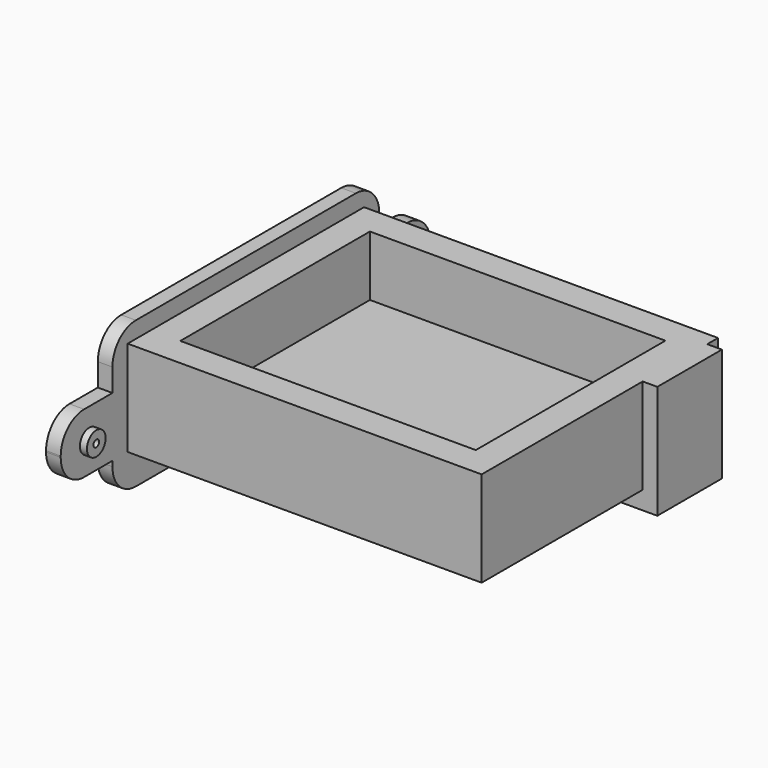
from build123d import *

# Parameters (mm, degrees)
BOX003_W          = 2.5
BOX003_H          = 57
BOX003_DEPTH      = 25
FILLET_R          = 5
BOX002_W          = 50.5
BOX002_H          = 40.5
BOX002_DEPTH      = 10.3
BOX_W             = 60.5
BOX_H             = 50.5
BOX_DEPTH         = 16.3
BOX001_W          = 63
BOX001_H          = 13.8
BOX001_DEPTH      = 19.4
CYLINDER001_R     = 0.6
CYLINDER001_DEPTH = 10
CYLINDER003_R     = 0.6
CYLINDER003_DEPTH = 10
CYLINDER_R        = 2
CYLINDER_DEPTH    = 1.2
CYLINDER002_R     = 2
CYLINDER002_DEPTH = 1.2
BOX004_W          = 2.5
BOX004_H          = 79
BOX004_DEPTH      = 10.2
FILLET001_R       = 5


with BuildPart() as fillet_body:
    # Box003 → Box003 (new body)
    with BuildSketch(Plane(origin=(-2.5, -3.25, -5.9), x_dir=(1, 0, 0), z_dir=(0, 0, 1))):
        with Locations((1.25, 28.5)):
            Rectangle(BOX003_W, BOX003_H)
    extrude(amount=BOX003_DEPTH)

    # Fillet
    fillet_edges = [fillet_body.edges().sort_by_distance(p)[0] for p in [
        (-1.25, -3.25, -5.9),
        (-1.25, -3.25, 19.1),
        (-1.25, 53.75, -5.9),
        (-1.25, 53.75, 19.1),
    ]]
    fillet(fillet_edges, radius=FILLET_R)


with BuildPart() as cube002:
    # Box002 → Box002 (new body)
    with BuildSketch(Plane(origin=(5, 5, 6), x_dir=(1, 0, 0), z_dir=(0, 0, 1))):
        with Locations((25.25, 20.25)):
            Rectangle(BOX002_W, BOX002_H)
    extrude(amount=BOX002_DEPTH)


with BuildPart() as cube:
    # Box → Box (new body)
    with BuildSketch(Plane.XY):
        with Locations((30.25, 25.25)):
            Rectangle(BOX_W, BOX_H)
    extrude(amount=BOX_DEPTH)


with BuildPart() as cut:
    # Box001 → Box001 (new body)
    with BuildSketch(Plane(origin=(0, 34.4, -3.1), x_dir=(1, 0, 0), z_dir=(0, 0, 1))):
        with Locations((31.5, 6.9)):
            Rectangle(BOX001_W, BOX001_H)
    extrude(amount=BOX001_DEPTH)

    # Fusion: union Cube
    add(cube.part)

    # Cut: cut Cube002
    add(cube002.part, mode=Mode.SUBTRACT)


with BuildPart() as foro:
    # Cylinder001 → Cylinder001 (new body)
    with BuildSketch(Plane(origin=(-6, -8.2, 5), x_dir=(0, 0, -1), z_dir=(1, 0, 0))):
        Circle(CYLINDER001_R)
    extrude(amount=CYLINDER001_DEPTH)


with BuildPart() as foro001:
    # Cylinder003 → Cylinder003 (new body)
    with BuildSketch(Plane(origin=(-6, 58.7, 5), x_dir=(0, 0, -1), z_dir=(1, 0, 0))):
        Circle(CYLINDER003_R)
    extrude(amount=CYLINDER003_DEPTH)


with BuildPart() as cylinder:
    # Cylinder → Cylinder (new body)
    with BuildSketch(Plane(origin=(0, -8.2, 5), x_dir=(0, 0, -1), z_dir=(1, 0, 0))):
        Circle(CYLINDER_R)
    extrude(amount=CYLINDER_DEPTH)


with BuildPart() as cylinder002:
    # Cylinder002 → Cylinder002 (new body)
    with BuildSketch(Plane(origin=(0, 58.7, 5), x_dir=(0, 0, -1), z_dir=(1, 0, 0))):
        Circle(CYLINDER002_R)
    extrude(amount=CYLINDER002_DEPTH)


with BuildPart() as fusion002:
    # Box004 → Box004 (new body)
    with BuildSketch(Plane(origin=(-2.5, -14.3, 0), x_dir=(1, 0, 0), z_dir=(0, 0, 1))):
        with Locations((1.25, 39.5)):
            Rectangle(BOX004_W, BOX004_H)
    extrude(amount=BOX004_DEPTH)

    # Fillet001
    fillet001_edges = [fusion002.edges().sort_by_distance(p)[0] for p in [
        (-1.25, -14.3, 0),
        (-1.25, -14.3, 10.2),
        (-1.25, 64.7, 0),
        (-1.25, 64.7, 10.2),
    ]]
    fillet(fillet001_edges, radius=FILLET001_R)

    # Fusion001: union Cylinder, Cylinder002
    add(cylinder.part)
    add(cylinder002.part)

    # Cut001: cut foro001
    add(foro001.part, mode=Mode.SUBTRACT)

    # Cut002: cut foro
    add(foro.part, mode=Mode.SUBTRACT)

    # Fusion002: union Fillet body, Cut
    add(fillet_body.part)
    add(cut.part)


solid = fusion002.part
